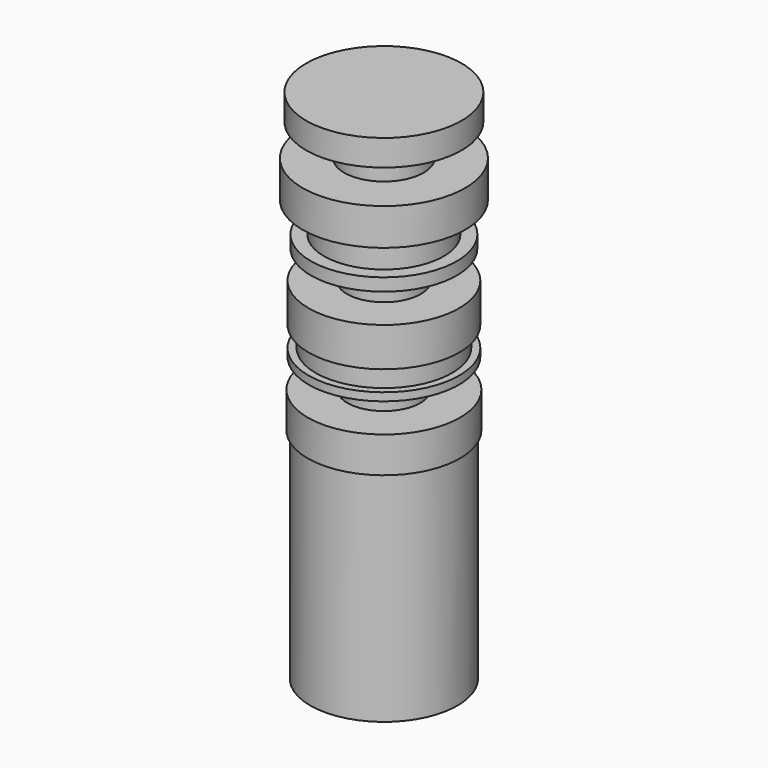
from build123d import *

# Parameters (mm, degrees)
F0_W   = 10.3888958693
F0_H   = 8.3731412888
F0_W_2 = 15.6360119581
F0_H_2 = 7.9048592597
F0_W_3 = 9.6391905099
F0_H_3 = 7.3461066931
F0_W_4 = 17.8349073976
F0_H_4 = 5.2964619827
F0_W_5 = 9.5420926809
F0_H_5 = 7.5158830732
F0_W_6 = 19.2370712757
F0_H_6 = 42.4508359283
F0_H_7 = 14.6481841803


with BuildPart() as f1:
    # F0 (on Front) → F1 (revolve)
    with BuildSketch(Plane.XZ):
        Polygon((0, 54.1152916849), (0, 60.9378516674), (-20.3126184642, 60.9378516674), (-20.3126184642, 54.1152916849), (-10.3888958693, 54.1152916849), align=None)
        with Locations((-5.1944479346, 49.9287210405)):
            Rectangle(F0_W, F0_H)
        Polygon((0, 36.1285470426), (0, 45.7421503961), (-10.3888958693, 45.7421503961), (-21.2429668754, 45.7421503961), (-21.2429668754, 36.1285470426), (-15.6360119581, 36.1285470426), align=None)
        with Locations((-7.8180059791, 32.1761174127)):
            Rectangle(F0_W_2, F0_H_2)
        Polygon((0, 24.9254349619), (0, 28.2236877829), (-15.6360119581, 28.2236877829), (-19.0841853619, 28.2236877829), (-19.0841853619, 24.9254349619), (-9.6391905099, 24.9254349619), align=None)
        with Locations((-4.819595255, 21.2523816153)):
            Rectangle(F0_W_3, F0_H_3)
        Polygon((0, 7.384730503), (0, 17.5793282688), (-9.6391905099, 17.5793282688), (-19.6838658303, 17.5793282688), (-19.6838658303, 7.384730503), (-17.8349073976, 7.384730503), align=None)
        with Locations((-8.9174536988, 4.7364995116)):
            Rectangle(F0_W_4, F0_H_4)
        Polygon((1.2327310396, 2.0882685203), (0, 2.0882685203), (-17.8349073976, 2.0882685203), (-19.6838658303, 2.0882685203), (-19.6838658303, 0), (-9.5420926809, 0), (0, 0), (1.2327310396, 0), align=None)
        with Locations((-4.7710463405, -3.7579415366)):
            Rectangle(F0_W_5, F0_H_5)
        Polygon((0, -16.8938729912), (0, -7.5158830732), (-9.5420926809, -7.5158830732), (-19.9061166495, -7.5158830732), (-19.9061166495, -16.8938729912), (-19.2370712757, -16.8938729912), align=None)
        with Locations((-9.6185356379, -38.1192909554)):
            Rectangle(F0_W_6, F0_H_6)
        with Locations((-9.6185356379, -66.6688010097)):
            Rectangle(F0_W_6, F0_H_7)
    revolve(axis=Axis((0, 0, -38.1192909554), (0, 0, -1)))


solid = f1.part
